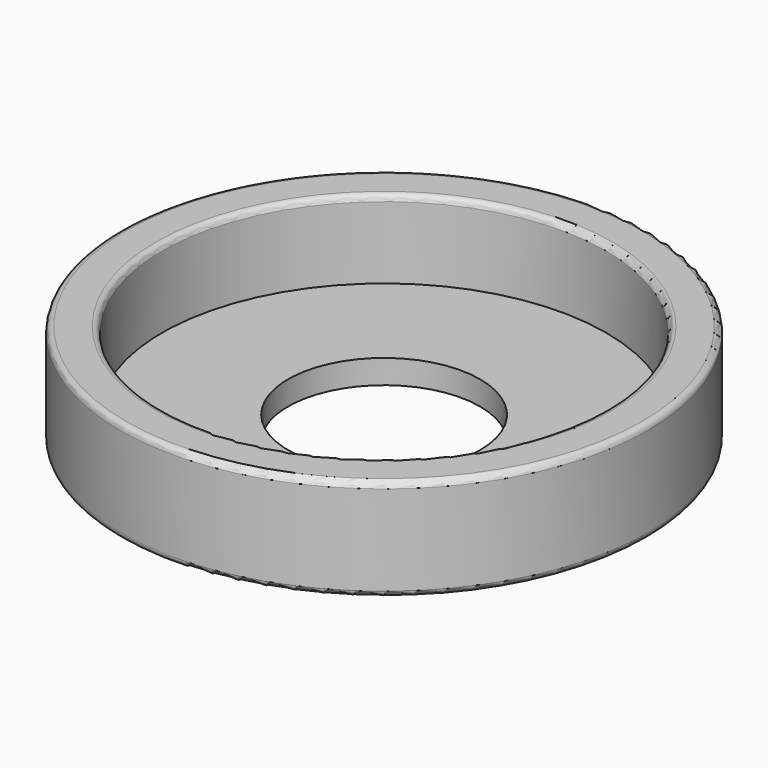
from build123d import *

# Parameters (mm, degrees)
F0_R     = 22
F0_R_2   = 18.5
F1_DEPTH = 8.5
F0_R_3   = 8
F2_DEPTH = 2
F3_R     = 0.5


with BuildPart() as f1:
    # F0 (on Top) → F1 (new body)
    with BuildSketch(Plane.XY):
        Circle(F0_R)
        Circle(F0_R_2, mode=Mode.SUBTRACT)
    extrude(amount=F1_DEPTH)

    # F0 (on Top) → F2 (join)
    with BuildSketch(Plane.XY):
        Circle(F0_R_2)
        Circle(F0_R_3, mode=Mode.SUBTRACT)
    extrude(amount=F2_DEPTH)

    # F3
    f3_edges = [f1.edges().sort_by_distance(p)[0] for p in [
        (-22, 0, 8.5),
        (-22, 0, 0),
        (-18.5, 0, 8.5),
    ]]
    fillet(f3_edges, radius=F3_R)


solid = f1.part
